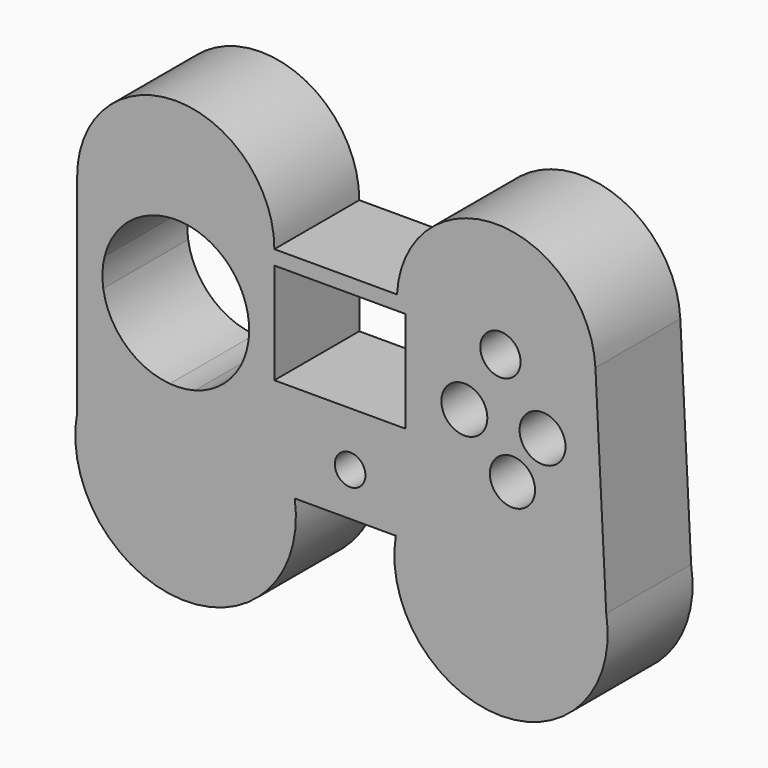
from build123d import *

# Parameters (mm, degrees)
F0_R     = 3.663168
F0_R_2   = 5.40738
F0_W     = 31.370827
F0_H     = 24.175684
F0_R_3   = 5.498528
F0_R_4   = 5.49852
F0_R_5   = 4.824504
F1_DEPTH = 25.4


with BuildPart() as f1:
    # F0 (on Front) → F1 (new body)
    with BuildSketch(Plane.XZ):
        with BuildLine():
            Line((-58.712374, 18.995181), (-58.712374, -30.795215))
            ThreePointArc((-58.712374, -30.795215), (-33.344531, -62.076452), (-6.619532, -31.946439))
            Line((-6.619532, -31.946439), (17.556151, -31.946439))
            ThreePointArc((17.556151, -31.946439), (42.739156, -61.710523), (67.92216, -31.946439))
            Line((67.92216, -31.946439), (65.331906, 18.995181))
            ThreePointArc((65.331906, 18.995181), (41.587932, 41.562508), (17.843958, 18.995181))
            Line((17.843958, 18.995181), (-11.51223, 18.995181))
            ThreePointArc((-11.51223, 18.995181), (-35.112302, 42.595253), (-58.712374, 18.995181))
        make_face()
        with Locations((6.619533, -21.585433)):
            Circle(F0_R, mode=Mode.SUBTRACT)
        with Locations((45.473311, -11.512231)):
            Circle(F0_R_2, mode=Mode.SUBTRACT)
        with BuildLine():
            ThreePointArc((-18.2517, 4.892698), (-17.730909, 2.470945), (-17.556152, 0))
            ThreePointArc((-17.556152, 0), (-17.606132, -1.323781), (-17.755785, -2.640024))
            ThreePointArc((-17.755785, -2.640024), (-22.008535, -11.683737), (-30.50741, -16.941469))
            ThreePointArc((-30.50741, -16.941469), (-33.505178, -17.482436), (-36.55133, -17.497075))
            ThreePointArc((-36.55133, -17.497075), (-47.091498, -12.834224), (-52.46882, -2.640024))
            ThreePointArc((-52.46882, -2.640024), (-52.647396, 0.859615), (-52.127377, 4.325006))
            ThreePointArc((-52.127377, 4.325006), (-46.668012, 13.216808), (-37.126943, 17.440173))
            ThreePointArc((-37.126943, 17.440173), (-33.644386, 17.494675), (-30.219605, 16.860603))
            ThreePointArc((-30.219605, 16.860603), (-22.69823, 12.414073), (-18.2517, 4.892698))
        make_face(mode=Mode.SUBTRACT)
        with Locations((4.173184, 3.45367)):
            Rectangle(F0_W, F0_H, mode=Mode.SUBTRACT)
        with Locations((33.961084, 0)):
            Circle(F0_R_3, mode=Mode.SUBTRACT)
        with Locations((52.668452, 0)):
            Circle(F0_R_4, mode=Mode.SUBTRACT)
        with Locations((42.595252, 14.390289)):
            Circle(F0_R_5, mode=Mode.SUBTRACT)
    extrude(amount=F1_DEPTH)


solid = f1.part
